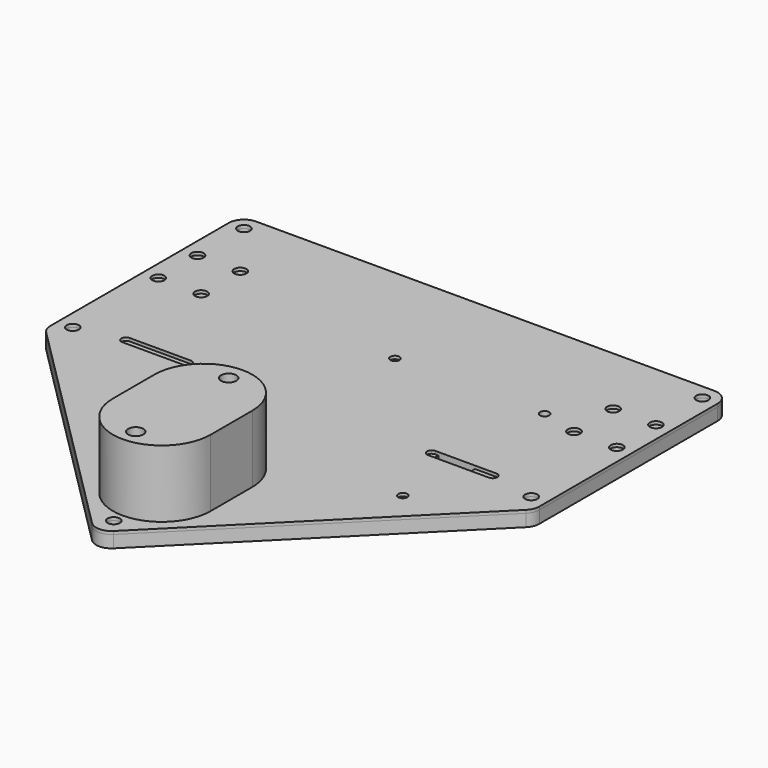
from build123d import *

# Parameters (mm, degrees)
SKETCH_R      = 2
SKETCH_R_2    = 2.5
SKETCH_R_3    = 1.5
PAD_DEPTH     = 5
SKETCH002_R   = 2.5
PAD001_DEPTH  = 22
FILLET_R      = 5
FILLET001_R   = 5
SKETCH003_R   = 2
SKETCH003_R_2 = 1.5
PAD002_DEPTH  = 4
FILLET002_R   = 5


with BuildPart() as base:
    # Sketch → Pad (new body)
    with BuildSketch(Plane.XY):
        Polygon((0, -80), (-80, 0), (-80, 80), (80, 80), (80, 0), align=None)
        with Locations((-75, 56)):
            Circle(SKETCH_R, mode=Mode.SUBTRACT)
        with Locations((-61, 56)):
            Circle(SKETCH_R, mode=Mode.SUBTRACT)
        with Locations((-75, 40)):
            Circle(SKETCH_R, mode=Mode.SUBTRACT)
        with Locations((-61, 40)):
            Circle(SKETCH_R, mode=Mode.SUBTRACT)
        with Locations((61, 56)):
            Circle(SKETCH_R, mode=Mode.SUBTRACT)
        with Locations((75, 56)):
            Circle(SKETCH_R, mode=Mode.SUBTRACT)
        with Locations((61, 40)):
            Circle(SKETCH_R, mode=Mode.SUBTRACT)
        with Locations((75, 40)):
            Circle(SKETCH_R, mode=Mode.SUBTRACT)
        with Locations((0, -63)):
            Circle(SKETCH_R_2, mode=Mode.SUBTRACT)
        with Locations((0, -25)):
            Circle(SKETCH_R_2, mode=Mode.SUBTRACT)
        with Locations((0, 43)):
            Circle(SKETCH_R_3, mode=Mode.SUBTRACT)
        with Locations((49, 43)):
            Circle(SKETCH_R_3, mode=Mode.SUBTRACT)
        with Locations((49, -15)):
            Circle(SKETCH_R_3, mode=Mode.SUBTRACT)
        with Locations((0, -15)):
            Circle(SKETCH_R_3, mode=Mode.SUBTRACT)
        with Locations((0, -72)):
            Circle(SKETCH_R, mode=Mode.SUBTRACT)
        with Locations((-75, 75)):
            Circle(SKETCH_R, mode=Mode.SUBTRACT)
        with Locations((75, 75)):
            Circle(SKETCH_R, mode=Mode.SUBTRACT)
        with Locations((-75, 5)):
            Circle(SKETCH_R, mode=Mode.SUBTRACT)
        with Locations((75, 5)):
            Circle(SKETCH_R, mode=Mode.SUBTRACT)
        with BuildLine():
            ThreePointArc((40, 9.5), (38.5, 8), (40, 6.5))
            Line((40, 6.5), (60, 6.5))
            ThreePointArc((60, 6.5), (61.5, 8), (60, 9.5))
            Line((60, 9.5), (40, 9.5))
        make_face(mode=Mode.SUBTRACT)
        with BuildLine():
            ThreePointArc((-60, 9.5), (-61.5, 8), (-60, 6.5))
            Line((-60, 6.5), (-40, 6.5))
            ThreePointArc((-40, 6.5), (-38.5, 8), (-40, 9.5))
            Line((-40, 9.5), (-60, 9.5))
        make_face(mode=Mode.SUBTRACT)
    extrude(amount=PAD_DEPTH)

    # Sketch002 → Pad001 (join)
    with BuildSketch(Plane.XY.offset(5)):
        with BuildLine():
            ThreePointArc((16, -35.35), (0, -19.35), (-16, -35.35))
            Line((-16, -35.35), (-16, -52.35))
            ThreePointArc((-16, -52.35), (0, -68.35), (16, -52.35))
            Line((16, -52.35), (16, -35.35))
        make_face()
        with Locations((0, -25)):
            Circle(SKETCH002_R, mode=Mode.SUBTRACT)
        with Locations((0, -63)):
            Circle(SKETCH002_R, mode=Mode.SUBTRACT)
    extrude(amount=PAD001_DEPTH)

    # Fillet
    fillet_edges = [base.edges().sort_by_distance(p)[0] for p in [
        (-80, 80, 2.5),
        (80, 80, 2.5),
        (80, 0, 2.5),
    ]]
    fillet(fillet_edges, radius=FILLET_R)

    # Fillet001
    fillet001_edges = [base.edges().sort_by_distance(p)[0] for p in [
        (-80, 0, 2.5),
        (0, -80, 2.5),
    ]]
    fillet(fillet001_edges, radius=FILLET001_R)


with BuildPart() as second_floor:
    # Sketch003 → Pad002 (new body)
    with BuildSketch(Plane.XY):
        Polygon((0, -80), (-80, 0), (-80, 80), (80, 80), (80, 0), align=None)
        with Locations((0, -72)):
            Circle(SKETCH003_R, mode=Mode.SUBTRACT)
        with Locations((-75, 75)):
            Circle(SKETCH003_R, mode=Mode.SUBTRACT)
        with Locations((75, 75)):
            Circle(SKETCH003_R, mode=Mode.SUBTRACT)
        with Locations((-75, 5)):
            Circle(SKETCH003_R, mode=Mode.SUBTRACT)
        with Locations((75, 5)):
            Circle(SKETCH003_R, mode=Mode.SUBTRACT)
        with Locations((-28, 25)):
            Circle(SKETCH003_R_2, mode=Mode.SUBTRACT)
        with Locations((28, 25)):
            Circle(SKETCH003_R_2, mode=Mode.SUBTRACT)
        with Locations((-20, -45)):
            Circle(SKETCH003_R_2, mode=Mode.SUBTRACT)
        with Locations((20, -45)):
            Circle(SKETCH003_R_2, mode=Mode.SUBTRACT)
        with BuildLine():
            ThreePointArc((53, 45), (47, 51), (41, 45))
            Line((41, 45), (41, -5))
            ThreePointArc((41, -5), (47, -11), (53, -5))
            Line((53, -5), (53, 45))
        make_face(mode=Mode.SUBTRACT)
    extrude(amount=PAD002_DEPTH)

    # Fillet002
    fillet002_edges = [second_floor.edges().sort_by_distance(p)[0] for p in [
        (0, -80, 2),
        (80, 0, 2),
        (-80, 0, 2),
        (80, 80, 2),
        (-80, 80, 2),
    ]]
    fillet(fillet002_edges, radius=FILLET002_R)


solid = Compound([base.part, second_floor.part])
